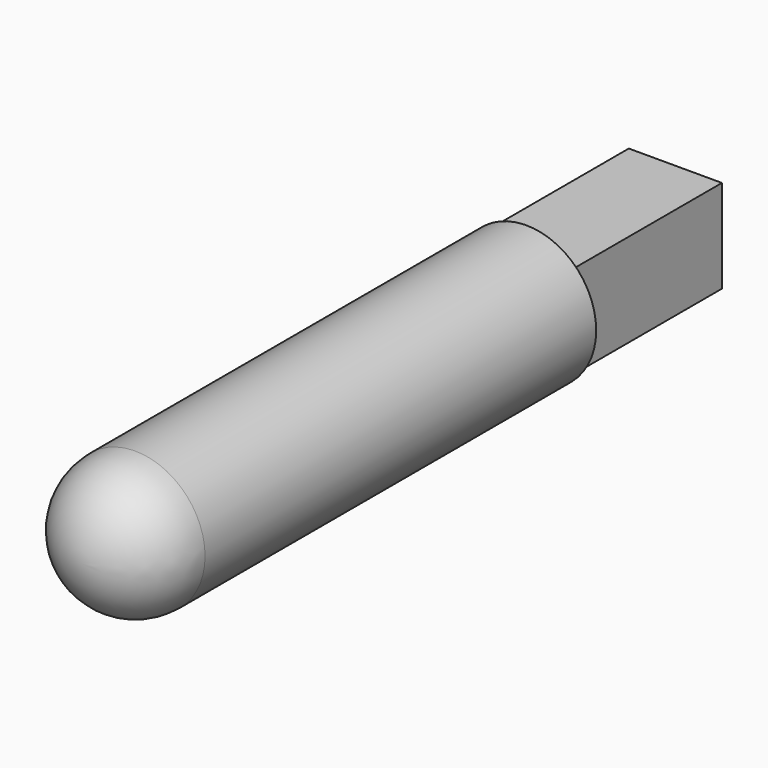
from build123d import *

# Parameters (mm, degrees)
F0_W     = 50.8
F0_H     = 50.8
F1_DEPTH = 101.6
F2_R     = 38.1
F3_DEPTH = 304.8
F4_R     = 38.1


with BuildPart() as f1:
    # F0 (on Front) → F1 (new body)
    with BuildSketch(Plane.XZ):
        Rectangle(F0_W, F0_H)
    extrude(amount=F1_DEPTH)

    # F2 (on face) → F3 (join)
    with BuildSketch(Plane.XZ.offset(101.6)):
        Circle(F2_R)
    extrude(amount=F3_DEPTH)

    # F4
    f4_edges = [f1.edges().sort_by_distance(p)[0] for p in [
        (-38.1, -406.4, 0),
    ]]
    fillet(f4_edges, radius=F4_R)


solid = f1.part
